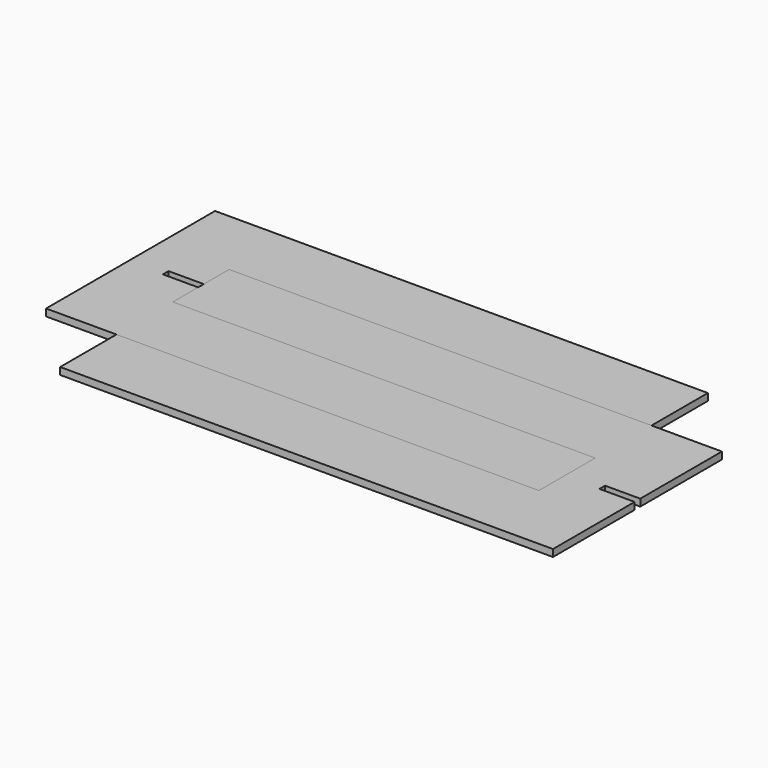
from build123d import *

# Parameters (mm, degrees)
F0_W     = 120
F0_H     = 20
F0_W_2   = 20
F1_DEPTH = 2
F2_DEPTH = 2


with BuildPart() as f1:
    # F0 (on Top) → F1 (new body)
    with BuildSketch(Plane.XY):
        with Locations((0, 30)):
            Rectangle(F0_W, F0_H)
        with Locations((-70, 30)):
            Rectangle(F0_W_2, F0_H)
        Polygon((-60, 20), (-80, 20), (-80, 0), (-60, 0), (-60, 9), (-70, 9), (-70, 11), (-60, 11), align=None)
        with Locations((-70, -10)):
            Rectangle(F0_W_2, F0_H)
        with Locations((0, -10)):
            Rectangle(F0_W, F0_H)
    extrude(amount=F1_DEPTH)


with BuildPart() as f2:
    # F0 (on Top) → F2 (new body)
    with BuildSketch(Plane.XY):
        Polygon((60, 20), (-60, 20), (-60, 11), (-60, 9), (-60, 0), (60, 0), align=None)
        with Locations((70, 10)):
            Rectangle(F0_W_2, F0_H)
        Polygon((80, 0), (60, 0), (60, -20), (80, -20), (80, -11), (70, -11), (70, -9), (80, -9), align=None)
        with Locations((70, -30)):
            Rectangle(F0_W_2, F0_H)
        with Locations((0, -30)):
            Rectangle(F0_W, F0_H)
    extrude(amount=F2_DEPTH)


solid = Compound([f1.part, f2.part])
